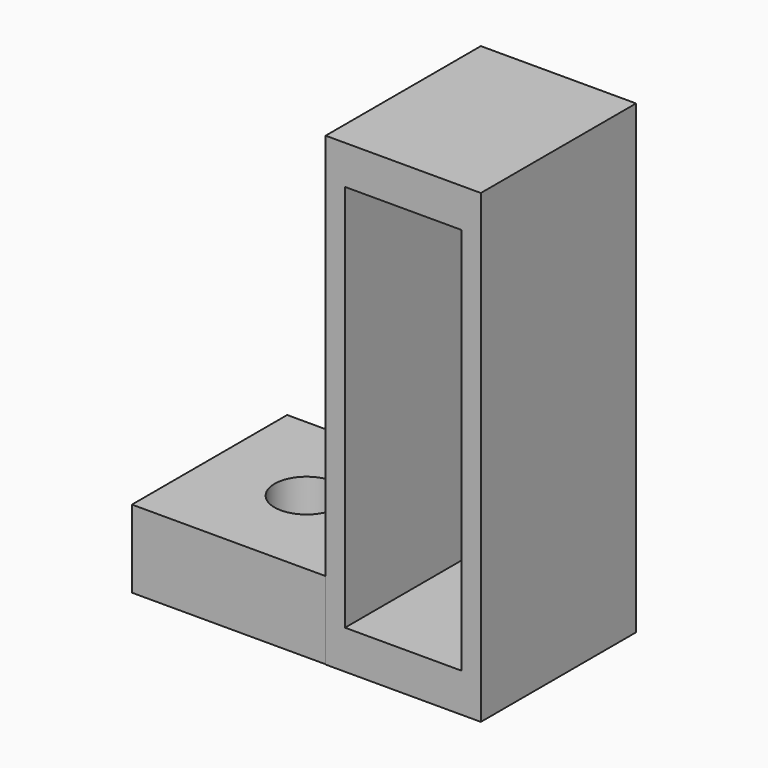
from build123d import *

# Parameters (mm, degrees)
SKETCH_W        = 10
SKETCH_H        = 10
SKETCH_R        = 1.65
PAD_DEPTH       = 4
SKETCH001_W     = 10
SKETCH001_H     = 24
PAD001_DEPTH    = 8
SKETCH002_W     = 6
SKETCH002_H     = 20
POCKET_DEPTH    = 9
SKETCH003_W     = 4
SKETCH003_H     = 20
POCKET001_DEPTH = 5


with BuildPart() as part:
    # Sketch → Pad (new body)
    with BuildSketch(Plane.XY):
        with Locations((-5, 0)):
            Rectangle(SKETCH_W, SKETCH_H)
        with Locations((-5, 0)):
            Circle(SKETCH_R, mode=Mode.SUBTRACT)
    extrude(amount=PAD_DEPTH)

    # Sketch001 → Pad001 (join)
    with BuildSketch(Plane.YZ):
        with Locations((-0.02241, 12)):
            Rectangle(SKETCH001_W, SKETCH001_H)
    extrude(amount=PAD001_DEPTH)

    # Sketch002 (on Face11 of Pad001) → Pocket (cut)
    with BuildSketch(Plane.XZ.offset(5.02241)):
        with Locations((4, 12)):
            Rectangle(SKETCH002_W, SKETCH002_H)
    extrude(amount=-POCKET_DEPTH, mode=Mode.SUBTRACT)

    # Sketch003 (on Face18 of Pocket) → Pocket001 (cut)
    with BuildSketch(Plane.XZ.offset(-3.97759)):
        with Locations((4, 12)):
            Rectangle(SKETCH003_W, SKETCH003_H)
    extrude(amount=-POCKET001_DEPTH, mode=Mode.SUBTRACT)


solid = part.part
